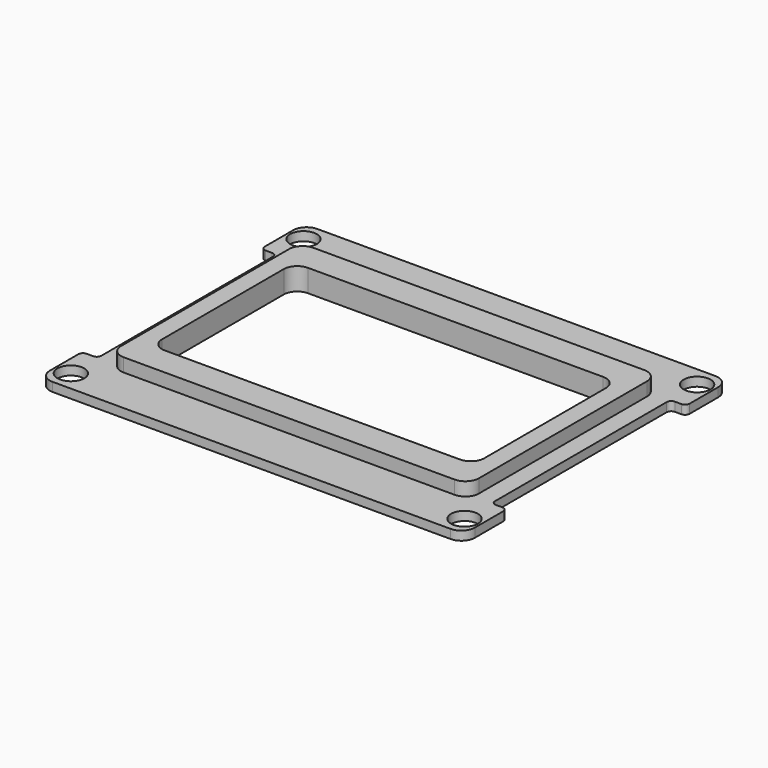
from build123d import *

# Parameters (mm, degrees)
SKETCH_W        = 95
SKETCH_H        = 74
PAD_DEPTH       = 5
SKETCH002_W     = 72
SKETCH002_H     = 40
POCKET_DEPTH    = 5.001
SKETCH004_W     = 117.661896
SKETCH004_H     = 92.433091
SKETCH004_W_2   = 80
SKETCH004_H_2   = 53
POCKET001_DEPTH = 3
FILLET_R        = 3
FILLET001_R     = 3
SKETCH005_R     = 3
POCKET002_DEPTH = 5
SKETCH006_W     = 5.477936
SKETCH006_H     = 50
SKETCH006_W_2   = 5.931454
POCKET003_DEPTH = 5
FILLET002_R     = 1


with BuildPart() as part:
    # Sketch → Pad (new body)
    with BuildSketch(Plane.XY):
        Rectangle(SKETCH_W, SKETCH_H)
    extrude(amount=PAD_DEPTH)

    # Sketch002 → Pocket (cut, through all)
    with BuildSketch(Plane.XY.offset(5)):
        Rectangle(SKETCH002_W, SKETCH002_H)
    extrude(amount=-POCKET_DEPTH, mode=Mode.SUBTRACT)

    # Sketch004 → Pocket001 (cut)
    with BuildSketch(Plane.XY.offset(5)):
        with Locations((-1.857784, 0.611237)):
            Rectangle(SKETCH004_W, SKETCH004_H)
        Rectangle(SKETCH004_W_2, SKETCH004_H_2, mode=Mode.SUBTRACT)
    extrude(amount=-POCKET001_DEPTH, mode=Mode.SUBTRACT)

    # Fillet
    fillet_edges = [part.edges().sort_by_distance(p)[0] for p in [
        (-36, 20, 2.5),
        (36, 20, 2.5),
        (36, -20, 2.5),
        (-36, -20, 2.5),
    ]]
    fillet(fillet_edges, radius=FILLET_R)

    # Fillet001
    fillet001_edges = [part.edges().sort_by_distance(p)[0] for p in [
        (40, 26.5, 3.5),
        (47.5, 37, 1),
        (47.5, -37, 1),
        (40, -26.5, 3.5),
        (-47.5, -37, 1),
        (-40, -26.5, 3.5),
        (-40, 26.5, 3.5),
        (-47.5, 37, 1),
    ]]
    fillet(fillet001_edges, radius=FILLET001_R)

    # Sketch005 → Pocket002 (cut)
    with BuildSketch(Plane.XY.offset(2)):
        with Locations((-44, 32.5)):
            Circle(SKETCH005_R)
        with Locations((44, 32.5)):
            Circle(SKETCH005_R)
        with Locations((44, -32.5)):
            Circle(SKETCH005_R)
        with Locations((-44, -32.5)):
            Circle(SKETCH005_R)
    extrude(amount=-POCKET002_DEPTH, mode=Mode.SUBTRACT)

    # Sketch006 → Pocket003 (cut)
    with BuildSketch(Plane.XY.offset(2)):
        with Locations((46.738968, 0)):
            Rectangle(SKETCH006_W, SKETCH006_H)
        with Locations((-46.965727, 0)):
            Rectangle(SKETCH006_W_2, SKETCH006_H)
    extrude(amount=-POCKET003_DEPTH, mode=Mode.SUBTRACT)

    # Fillet002
    fillet002_edges = [part.edges().sort_by_distance(p)[0] for p in [
        (-47.5, 25, 1),
        (-44, 25, 1),
        (-44, -25, 1),
        (-47.5, -25, 1),
        (47.5, -25, 1),
        (44, -25, 1),
        (44, 25, 1),
        (47.5, 25, 1),
    ]]
    fillet(fillet002_edges, radius=FILLET002_R)


solid = part.part
